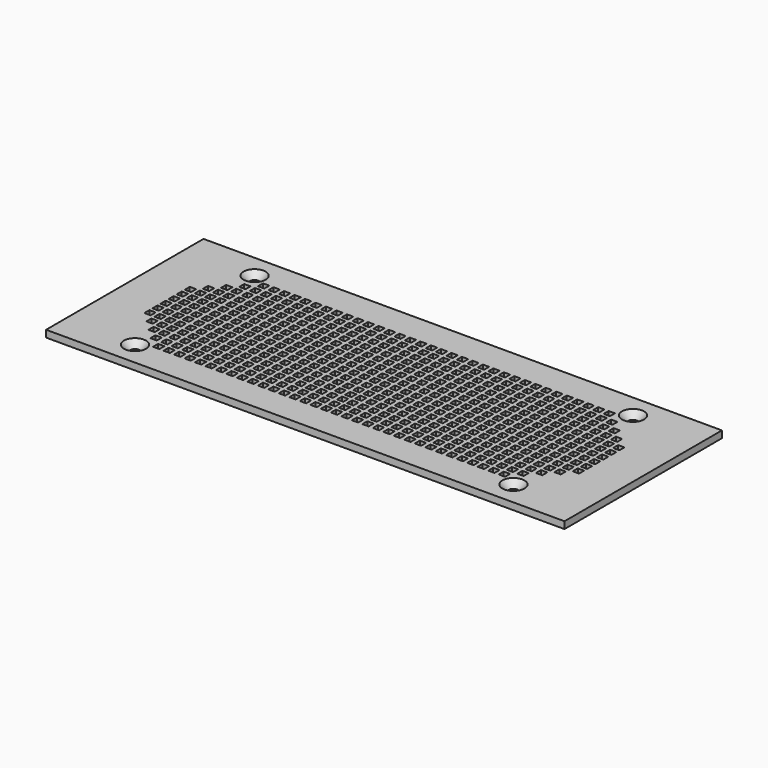
from build123d import *

# Parameters (mm, degrees)
SKETCH_W               = 164.4
SKETCH_H               = 62.4
PAD_DEPTH              = 2.2
SKETCH001_R            = 1.5
POCKET_DEPTH           = 2.2
SKETCH002_W            = 2
SKETCH002_H            = 2
POCKET001_DEPTH        = 2.2
LINEARPATTERN_COUNT    = 17
LINEARPATTERN_PITCH    = 3.325
SKETCH003_W            = 2
SKETCH003_H            = 2
POCKET002_DEPTH        = 2.2
LINEARPATTERN001_COUNT = 17
LINEARPATTERN001_PITCH = 3.325
SKETCH004_W            = 2
SKETCH004_H            = 2
POCKET003_DEPTH        = 2.2
LINEARPATTERN002_COUNT = 17
LINEARPATTERN002_PITCH = 3.325
SKETCH005_W            = 2
SKETCH005_H            = 2
POCKET004_DEPTH        = 2.2
LINEARPATTERN003_COUNT = 2
LINEARPATTERN003_PITCH = 116.35
SKETCH006_W            = 2
SKETCH006_H            = 2
POCKET005_DEPTH        = 2.2
LINEARPATTERN004_COUNT = 2
LINEARPATTERN004_PITCH = 122.9
SKETCH007_W            = 2
SKETCH007_H            = 2
POCKET006_DEPTH        = 2.2
LINEARPATTERN005_COUNT = 2
LINEARPATTERN005_PITCH = 129.4
SKETCH008_W            = 2
SKETCH008_H            = 2
POCKET007_DEPTH        = 2.2
LINEARPATTERN006_COUNT = 2
LINEARPATTERN006_PITCH = 135.85
CHAMFER_SIZE           = 2


with BuildPart() as part:
    # Sketch → Pad (new body)
    with BuildSketch(Plane.XY):
        Rectangle(SKETCH_W, SKETCH_H)
    extrude(amount=PAD_DEPTH)

    # Sketch001 (on Face6 of Pad) → Pocket (cut)
    with BuildSketch(Plane.XY.offset(2.2)):
        with Locations((-60, 23.7)):
            Circle(SKETCH001_R)
        with Locations((60, 23.7)):
            Circle(SKETCH001_R)
        with Locations((-60, -23.7)):
            Circle(SKETCH001_R)
        with Locations((60, -23.7)):
            Circle(SKETCH001_R)
    extrude(amount=-POCKET_DEPTH, mode=Mode.SUBTRACT)

    # Sketch002 (on Face5 of Pocket) → Pocket001 (cut)
    with BuildSketch(Plane.XY.offset(2.2)):
        with Locations((-1.6, 1.6)):
            Rectangle(SKETCH002_W, SKETCH002_H)
        with Locations((-1.6, 4.8)):
            Rectangle(SKETCH002_W, SKETCH002_H)
        with Locations((-1.6, 8)):
            Rectangle(SKETCH002_W, SKETCH002_H)
        with Locations((-1.6, 11.2)):
            Rectangle(SKETCH002_W, SKETCH002_H)
        with Locations((-1.6, 14.4)):
            Rectangle(SKETCH002_W, SKETCH002_H)
        with Locations((-1.6, 17.6)):
            Rectangle(SKETCH002_W, SKETCH002_H)
        with Locations((-1.6, 20.8)):
            Rectangle(SKETCH002_W, SKETCH002_H)
    pocket001 = extrude(amount=-POCKET001_DEPTH, mode=Mode.SUBTRACT)

    # LinearPattern: Pocket001 ×17
    with Locations(*[(-i * LINEARPATTERN_PITCH, 0, 0) for i in range(1, LINEARPATTERN_COUNT)]):
        add(pocket001, mode=Mode.SUBTRACT)

    # Sketch003 (on Face5 of LinearPattern) → Pocket002 (cut)
    with BuildSketch(Plane.XY.offset(2.2)):
        with Locations((-1.6, -1.6)):
            Rectangle(SKETCH003_W, SKETCH003_H)
        with Locations((-1.6, -4.8)):
            Rectangle(SKETCH003_W, SKETCH003_H)
        with Locations((-1.6, -8)):
            Rectangle(SKETCH003_W, SKETCH003_H)
        with Locations((-1.6, -11.2)):
            Rectangle(SKETCH003_W, SKETCH003_H)
        with Locations((-1.6, -14.4)):
            Rectangle(SKETCH003_W, SKETCH003_H)
        with Locations((-1.6, -17.6)):
            Rectangle(SKETCH003_W, SKETCH003_H)
        with Locations((-1.6, -20.8)):
            Rectangle(SKETCH003_W, SKETCH003_H)
    pocket002 = extrude(amount=-POCKET002_DEPTH, mode=Mode.SUBTRACT)

    # LinearPattern001: Pocket002 ×17
    with Locations(*[(-i * LINEARPATTERN001_PITCH, 0, 0) for i in range(1, LINEARPATTERN001_COUNT)]):
        add(pocket002, mode=Mode.SUBTRACT)

    # Sketch004 (on Face5 of LinearPattern001) → Pocket003 (cut)
    with BuildSketch(Plane.XY.offset(2.2)):
        with Locations((1.6, 1.6)):
            Rectangle(SKETCH004_W, SKETCH004_H)
        with Locations((1.6, 4.8)):
            Rectangle(SKETCH004_W, SKETCH004_H)
        with Locations((1.6, 8)):
            Rectangle(SKETCH004_W, SKETCH004_H)
        with Locations((1.6, 11.2)):
            Rectangle(SKETCH004_W, SKETCH004_H)
        with Locations((1.6, 14.4)):
            Rectangle(SKETCH004_W, SKETCH004_H)
        with Locations((1.6, 20.8)):
            Rectangle(SKETCH004_W, SKETCH004_H)
        with Locations((1.6, 17.6)):
            Rectangle(SKETCH004_W, SKETCH004_H)
        with Locations((1.6, -1.6)):
            Rectangle(SKETCH004_W, SKETCH004_H)
        with Locations((1.6, -4.8)):
            Rectangle(SKETCH004_W, SKETCH004_H)
        with Locations((1.6, -11.2)):
            Rectangle(SKETCH004_W, SKETCH004_H)
        with Locations((1.6, -17.6)):
            Rectangle(SKETCH004_W, SKETCH004_H)
        with Locations((1.6, -14.4)):
            Rectangle(SKETCH004_W, SKETCH004_H)
        with Locations((1.6, -20.8)):
            Rectangle(SKETCH004_W, SKETCH004_H)
        with Locations((1.6, -8)):
            Rectangle(SKETCH004_W, SKETCH004_H)
    pocket003 = extrude(amount=-POCKET003_DEPTH, mode=Mode.SUBTRACT)

    # LinearPattern002: Pocket003 ×17
    with Locations(*[(i * LINEARPATTERN002_PITCH, 0, 0) for i in range(1, LINEARPATTERN002_COUNT)]):
        add(pocket003, mode=Mode.SUBTRACT)

    # Sketch005 (on Face5 of LinearPattern002) → Pocket004 (cut)
    with BuildSketch(Plane.XY.offset(2.2)):
        with Locations((-58.2, 1.6)):
            Rectangle(SKETCH005_W, SKETCH005_H)
        with Locations((-58.2, -1.6)):
            Rectangle(SKETCH005_W, SKETCH005_H)
        with Locations((-58.2, 4.8)):
            Rectangle(SKETCH005_W, SKETCH005_H)
        with Locations((-58.2, 8)):
            Rectangle(SKETCH005_W, SKETCH005_H)
        with Locations((-58.2, 11.2)):
            Rectangle(SKETCH005_W, SKETCH005_H)
        with Locations((-58.2, 14.4)):
            Rectangle(SKETCH005_W, SKETCH005_H)
        with Locations((-58.2, 17.6)):
            Rectangle(SKETCH005_W, SKETCH005_H)
        with Locations((-58.2, -4.8)):
            Rectangle(SKETCH005_W, SKETCH005_H)
        with Locations((-58.2, -8)):
            Rectangle(SKETCH005_W, SKETCH005_H)
        with Locations((-58.2, -11.2)):
            Rectangle(SKETCH005_W, SKETCH005_H)
        with Locations((-58.2, -14.4)):
            Rectangle(SKETCH005_W, SKETCH005_H)
        with Locations((-58.2, -17.6)):
            Rectangle(SKETCH005_W, SKETCH005_H)
    pocket004 = extrude(amount=-POCKET004_DEPTH, mode=Mode.SUBTRACT)

    # LinearPattern003: Pocket004 ×2
    with Locations(*[(i * LINEARPATTERN003_PITCH, 0, 0) for i in range(1, LINEARPATTERN003_COUNT)]):
        add(pocket004, mode=Mode.SUBTRACT)

    # Sketch006 (on Face5 of LinearPattern003) → Pocket005 (cut)
    with BuildSketch(Plane.XY.offset(2.2)):
        with Locations((-61.4, 14.4)):
            Rectangle(SKETCH006_W, SKETCH006_H)
        with Locations((-61.4, 11.2)):
            Rectangle(SKETCH006_W, SKETCH006_H)
        with Locations((-61.4, 8)):
            Rectangle(SKETCH006_W, SKETCH006_H)
        with Locations((-61.4, 4.8)):
            Rectangle(SKETCH006_W, SKETCH006_H)
        with Locations((-61.4, 1.6)):
            Rectangle(SKETCH006_W, SKETCH006_H)
        with Locations((-61.4, -1.6)):
            Rectangle(SKETCH006_W, SKETCH006_H)
        with Locations((-61.4, -4.8)):
            Rectangle(SKETCH006_W, SKETCH006_H)
        with Locations((-61.4, -8)):
            Rectangle(SKETCH006_W, SKETCH006_H)
        with Locations((-61.4, -11.2)):
            Rectangle(SKETCH006_W, SKETCH006_H)
        with Locations((-61.4, -14.4)):
            Rectangle(SKETCH006_W, SKETCH006_H)
    pocket005 = extrude(amount=-POCKET005_DEPTH, mode=Mode.SUBTRACT)

    # LinearPattern004: Pocket005 ×2
    with Locations(*[(i * LINEARPATTERN004_PITCH, 0, 0) for i in range(1, LINEARPATTERN004_COUNT)]):
        add(pocket005, mode=Mode.SUBTRACT)

    # Sketch007 (on Face5 of LinearPattern004) → Pocket006 (cut)
    with BuildSketch(Plane.XY.offset(2.2)):
        with Locations((-64.6, 11.2)):
            Rectangle(SKETCH007_W, SKETCH007_H)
        with Locations((-64.6, 8)):
            Rectangle(SKETCH007_W, SKETCH007_H)
        with Locations((-64.6, 4.8)):
            Rectangle(SKETCH007_W, SKETCH007_H)
        with Locations((-64.6, 1.6)):
            Rectangle(SKETCH007_W, SKETCH007_H)
        with Locations((-64.6, -1.6)):
            Rectangle(SKETCH007_W, SKETCH007_H)
        with Locations((-64.6, -4.8)):
            Rectangle(SKETCH007_W, SKETCH007_H)
        with Locations((-64.6, -11.2)):
            Rectangle(SKETCH007_W, SKETCH007_H)
        with Locations((-64.6, -8)):
            Rectangle(SKETCH007_W, SKETCH007_H)
    pocket006 = extrude(amount=-POCKET006_DEPTH, mode=Mode.SUBTRACT)

    # LinearPattern005: Pocket006 ×2
    with Locations(*[(i * LINEARPATTERN005_PITCH, 0, 0) for i in range(1, LINEARPATTERN005_COUNT)]):
        add(pocket006, mode=Mode.SUBTRACT)

    # Sketch008 (on Face5 of LinearPattern005) → Pocket007 (cut)
    with BuildSketch(Plane.XY.offset(2.2)):
        with Locations((-67.8, 8)):
            Rectangle(SKETCH008_W, SKETCH008_H)
        with Locations((-67.8, 4.8)):
            Rectangle(SKETCH008_W, SKETCH008_H)
        with Locations((-67.8, 1.6)):
            Rectangle(SKETCH008_W, SKETCH008_H)
        with Locations((-67.8, -1.6)):
            Rectangle(SKETCH008_W, SKETCH008_H)
        with Locations((-67.8, -8)):
            Rectangle(SKETCH008_W, SKETCH008_H)
        with Locations((-67.8, -4.8)):
            Rectangle(SKETCH008_W, SKETCH008_H)
    pocket007 = extrude(amount=-POCKET007_DEPTH, mode=Mode.SUBTRACT)

    # LinearPattern006: Pocket007 ×2
    with Locations(*[(i * LINEARPATTERN006_PITCH, 0, 0) for i in range(1, LINEARPATTERN006_COUNT)]):
        add(pocket007, mode=Mode.SUBTRACT)

    # Chamfer
    chamfer_edges = [part.edges().sort_by_distance(p)[0] for p in [
        (-61.5, 23.7, 2.2),
        (-61.5, -23.7, 2.2),
        (58.5, -23.7, 2.2),
        (58.5, 23.7, 2.2),
    ]]
    chamfer(chamfer_edges, length=CHAMFER_SIZE)


solid = part.part
